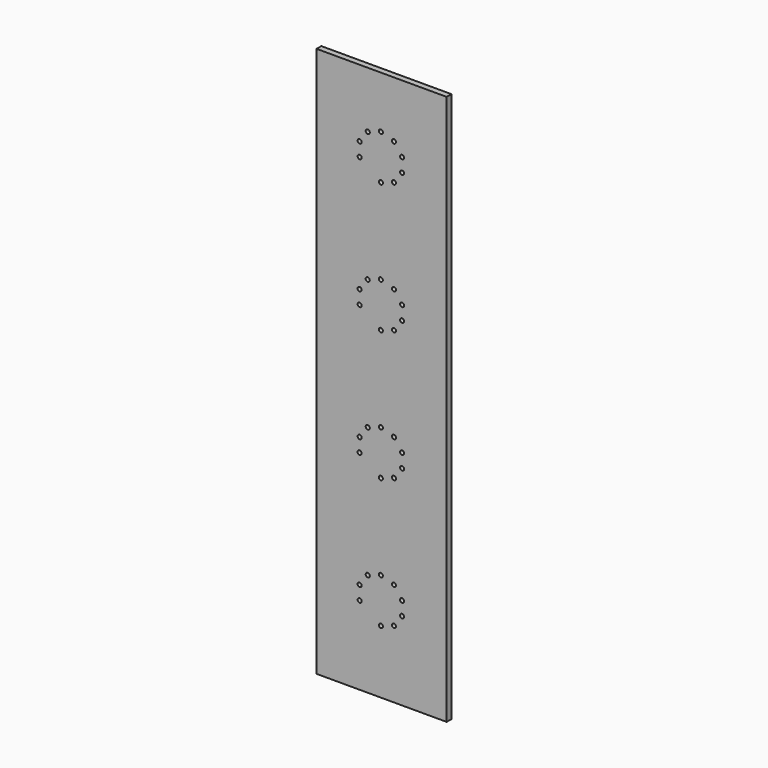
from build123d import *

# Parameters (mm, degrees)
F0_W     = 34.98596
F0_H     = 148
F0_R     = 0.55
F1_DEPTH = 1.6


with BuildPart() as f1:
    # F0 (on Front) → F1 (new body)
    with BuildSketch(Plane.XZ):
        with Locations((-0.166353, -1.83541)):
            Rectangle(F0_W, F0_H)
        with Locations((-0.373373, -58.83541)):
            Circle(F0_R, mode=Mode.SUBTRACT)
        with Locations((-6.079712, -54.689512)):
            Circle(F0_R, mode=Mode.SUBTRACT)
        with Locations((-6.079712, -50.981308)):
            Circle(F0_R, mode=Mode.SUBTRACT)
        with Locations((-3.900085, -47.981308)):
            Circle(F0_R, mode=Mode.SUBTRACT)
        with Locations((-0.373373, -46.83541)):
            Circle(F0_R, mode=Mode.SUBTRACT)
        with Locations((-0.373373, -23.83541)):
            Circle(F0_R, mode=Mode.SUBTRACT)
        with Locations((-6.079712, -19.689512)):
            Circle(F0_R, mode=Mode.SUBTRACT)
        with Locations((-6.079712, -15.981308)):
            Circle(F0_R, mode=Mode.SUBTRACT)
        with Locations((-3.900085, -12.981308)):
            Circle(F0_R, mode=Mode.SUBTRACT)
        with Locations((-0.373373, -11.83541)):
            Circle(F0_R, mode=Mode.SUBTRACT)
        with Locations((3.153338, -57.689512)):
            Circle(F0_R, mode=Mode.SUBTRACT)
        with Locations((3.153338, -47.981308)):
            Circle(F0_R, mode=Mode.SUBTRACT)
        with Locations((5.332966, -54.689512)):
            Circle(F0_R, mode=Mode.SUBTRACT)
        with Locations((5.332966, -50.981308)):
            Circle(F0_R, mode=Mode.SUBTRACT)
        with Locations((3.153338, -22.689512)):
            Circle(F0_R, mode=Mode.SUBTRACT)
        with Locations((3.153338, -12.981308)):
            Circle(F0_R, mode=Mode.SUBTRACT)
        with Locations((5.332966, -19.689512)):
            Circle(F0_R, mode=Mode.SUBTRACT)
        with Locations((5.332966, -15.981308)):
            Circle(F0_R, mode=Mode.SUBTRACT)
        with Locations((-6.079712, 15.310488)):
            Circle(F0_R, mode=Mode.SUBTRACT)
        with Locations((-0.373373, 11.16459)):
            Circle(F0_R, mode=Mode.SUBTRACT)
        with Locations((-6.079712, 19.018692)):
            Circle(F0_R, mode=Mode.SUBTRACT)
        with Locations((-3.900085, 22.018692)):
            Circle(F0_R, mode=Mode.SUBTRACT)
        with Locations((-0.373373, 23.16459)):
            Circle(F0_R, mode=Mode.SUBTRACT)
        with Locations((-6.079712, 50.310488)):
            Circle(F0_R, mode=Mode.SUBTRACT)
        with Locations((-0.373373, 46.16459)):
            Circle(F0_R, mode=Mode.SUBTRACT)
        with Locations((-6.079712, 54.018692)):
            Circle(F0_R, mode=Mode.SUBTRACT)
        with Locations((-3.900085, 57.018692)):
            Circle(F0_R, mode=Mode.SUBTRACT)
        with Locations((-0.373373, 58.16459)):
            Circle(F0_R, mode=Mode.SUBTRACT)
        with Locations((3.153338, 12.310488)):
            Circle(F0_R, mode=Mode.SUBTRACT)
        with Locations((5.332966, 15.310488)):
            Circle(F0_R, mode=Mode.SUBTRACT)
        with Locations((3.153338, 22.018692)):
            Circle(F0_R, mode=Mode.SUBTRACT)
        with Locations((5.332966, 19.018692)):
            Circle(F0_R, mode=Mode.SUBTRACT)
        with Locations((3.153338, 47.310488)):
            Circle(F0_R, mode=Mode.SUBTRACT)
        with Locations((5.332966, 50.310488)):
            Circle(F0_R, mode=Mode.SUBTRACT)
        with Locations((3.153338, 57.018692)):
            Circle(F0_R, mode=Mode.SUBTRACT)
        with Locations((5.332966, 54.018692)):
            Circle(F0_R, mode=Mode.SUBTRACT)
    extrude(amount=F1_DEPTH)


solid = f1.part
